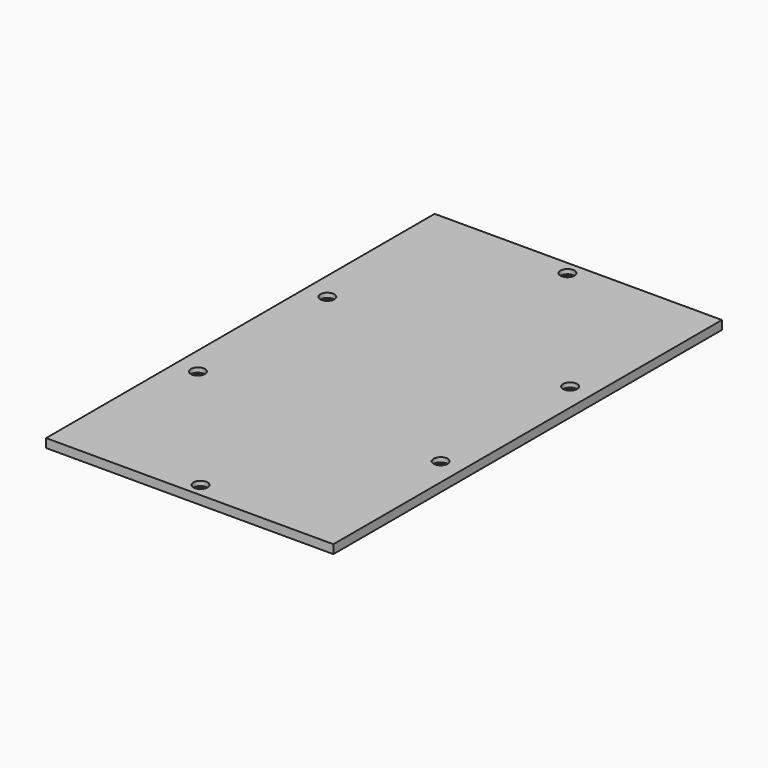
from build123d import *

# Parameters (mm, degrees)
SKETCH_W        = 213
SKETCH_H        = 360
PAD_DEPTH       = 6.5
SKETCH001_R     = 5.2
POCKET_DEPTH    = 3.4
SKETCH002_R     = 3.2
POCKET001_DEPTH = 3.1


with BuildPart() as part:
    # Sketch → Pad (new body)
    with BuildSketch(Plane.XY):
        with Locations((106.5, 180)):
            Rectangle(SKETCH_W, SKETCH_H)
    extrude(amount=PAD_DEPTH)

    # Sketch001 (on Face6 of Pad) → Pocket (cut)
    with BuildSketch(Plane.XY.offset(6.5)):
        with Locations((106.5, 350)):
            Circle(SKETCH001_R)
        with Locations((16.5, 240)):
            Circle(SKETCH001_R)
        with Locations((16.5, 120)):
            Circle(SKETCH001_R)
        with Locations((196.5, 240)):
            Circle(SKETCH001_R)
        with Locations((196.5, 120)):
            Circle(SKETCH001_R)
        with Locations((106.5, 10)):
            Circle(SKETCH001_R)
    extrude(amount=-POCKET_DEPTH, mode=Mode.SUBTRACT)

    # Sketch002 (on Face17 of Pocket) → Pocket001 (cut)
    with BuildSketch(Plane.XY.offset(3.1)):
        with Locations((106.5, 350)):
            Circle(SKETCH002_R)
        with Locations((16.5, 240)):
            Circle(SKETCH002_R)
        with Locations((16.5, 120)):
            Circle(SKETCH002_R)
        with Locations((196.5, 240)):
            Circle(SKETCH002_R)
        with Locations((196.5, 120)):
            Circle(SKETCH002_R)
        with Locations((106.5, 10)):
            Circle(SKETCH002_R)
    extrude(amount=-POCKET001_DEPTH, mode=Mode.SUBTRACT)


solid = part.part
